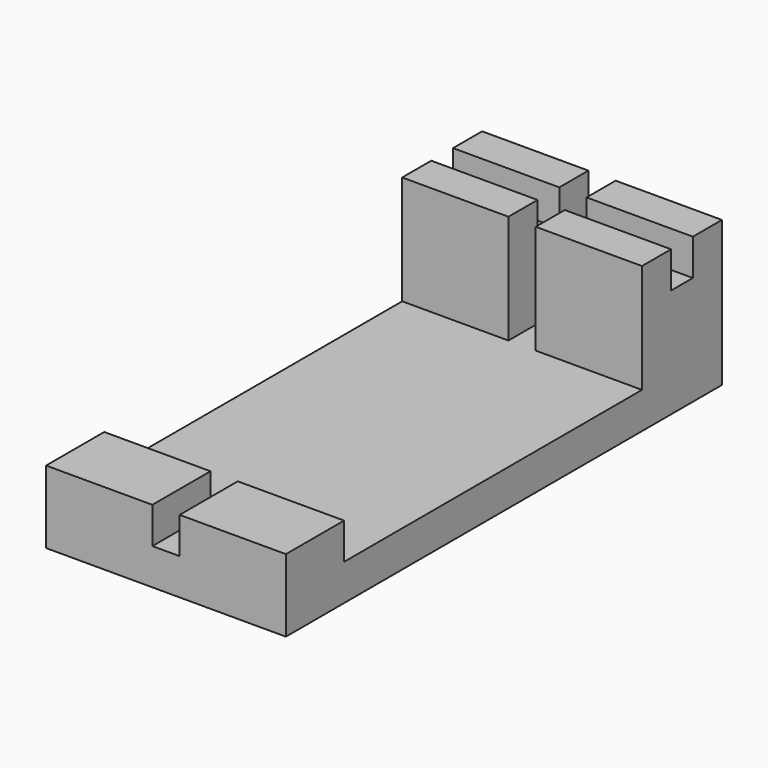
from build123d import *

# Parameters (mm, degrees)
SKETCH_W     = 6.6
SKETCH_H     = 15
PAD_DEPTH    = 1
SKETCH001_W  = 2.925
SKETCH001_H  = 2
PAD001_DEPTH = 1
PAD002_DEPTH = 6.6
SKETCH003_W  = 0.75
SKETCH003_H  = 3
POCKET_DEPTH = 15.001


with BuildPart() as part:
    # Sketch → Pad (new body)
    with BuildSketch(Plane.XY):
        with Locations((0, 7.5)):
            Rectangle(SKETCH_W, SKETCH_H)
    extrude(amount=PAD_DEPTH)

    # Sketch001 → Pad001 (new body)
    with BuildSketch(Plane.XY.offset(1)):
        with Locations((-1.8375, 1)):
            Rectangle(SKETCH001_W, SKETCH001_H)
        with Locations((1.8375, 1)):
            Rectangle(SKETCH001_W, SKETCH001_H)
    extrude(amount=PAD001_DEPTH)

    # Sketch002 → Pad002 (new body)
    with BuildSketch(Plane(origin=(-3.3, 0, 0), x_dir=(0, -1, 0), z_dir=(-1, 0, 0))):
        Polygon((-15, 0), (-12.25, 0), (-12.25, 4), (-13.25, 4), (-13.25, 3), (-14, 3), (-14, 4), (-15, 4), align=None)
    extrude(amount=-PAD002_DEPTH)

    # Sketch003 → Pocket (cut, through all)
    with BuildSketch(Plane.XZ):
        with Locations((0, 2.5)):
            Rectangle(SKETCH003_W, SKETCH003_H)
    extrude(amount=-POCKET_DEPTH, mode=Mode.SUBTRACT)


solid = part.part
